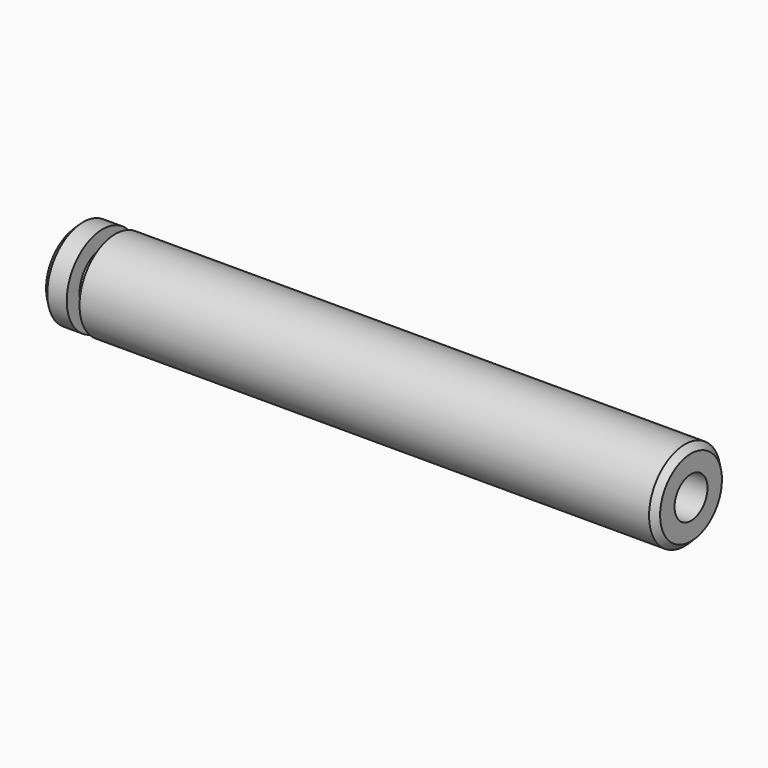
from build123d import *

# Parameters (mm, degrees)
F0_W     = 76.2
F0_H     = 5.55625
F4_R     = 8.89
F4_R_2   = 3.5687
F5_DEPTH = 1.5875
F6_SIZE2 = 0.762
F6_SIZE  = 0.762
F7_D     = 5.1054
F7_DEPTH = 25.4
F7_TIP   = 1.5338169022


with BuildPart() as f1:
    # F0 (on Front) → F1 (revolve)
    with BuildSketch(Plane.XZ):
        with Locations((-24.7265758226, 35.9573098083)):
            Rectangle(F0_W, F0_H)
    revolve(axis=Axis((-24.7265758226, 0, 33.1791848083), (1, 0, 0)))

    # F4 (on offset) → F5 (cut)
    with BuildSketch(Plane(origin=(-58.0640758226, 0, 0), x_dir=(0, -1, 0), z_dir=(-1, 0, 0))):
        with Locations((0, 33.1791848083)):
            Circle(F4_R)
        with Locations((0, 33.1791848083)):
            Circle(F4_R_2, mode=Mode.SUBTRACT)
    extrude(amount=F5_DEPTH, mode=Mode.SUBTRACT)

    # F6
    f6_edges = [f1.edges().sort_by_distance(p)[0] for p in [
        (-62.826576, 0, 27.622935),
        (13.373424, 0, 27.622935),
    ]]
    chamfer(f6_edges, length=F6_SIZE, length2=F6_SIZE2)

    # F7
    with Locations(Plane.YZ.offset(13.3734241774)):
        with Locations((0, 33.1791848083)):
            Hole(F7_D / 2, depth=F7_DEPTH)
            with Locations((0, 0, -(F7_DEPTH + F7_TIP / 2))):  # 118° drill point
                Cone(0, F7_D / 2, F7_TIP, mode=Mode.SUBTRACT)


solid = f1.part
